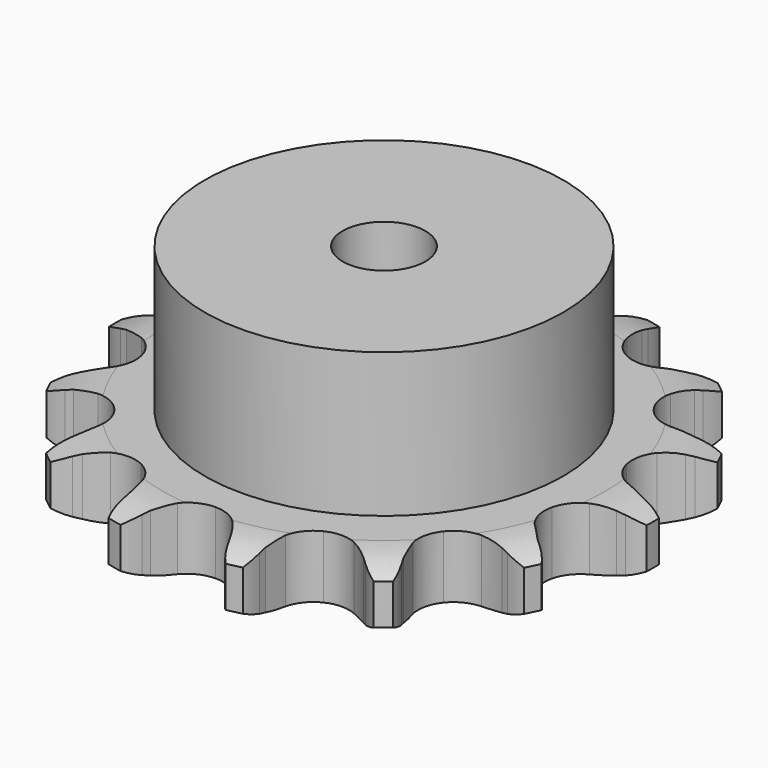
from build123d import *

# Parameters (mm, degrees)
PAD_DEPTH         = 9.1
SKETCH001_R       = 26
PAD001_DEPTH      = 30
SKETCH002_R       = 6
POCKET_DEPTH      = 0.001
POCKET_DEPTH_BACK = -30.001


with BuildPart() as part:
    # Sprocket → Pad (new body)
    with BuildSketch(Plane.XY):
        with BuildLine():
            ThreePointArc((-9.013426, 39.4904), (-7.374995, 38.000786), (-6.176591, 36.138735))
            Line((-6.176591, 36.138735), (-5.708889, 35.148664))
            ThreePointArc((-5.708889, 35.148664), (-4.928604, 33.728493), (-3.981059, 32.413999))
            ThreePointArc((-3.981059, 32.413999), (-2.202752, 31.022847), (0, 30.527301))
            ThreePointArc((0, 30.527301), (2.202752, 31.022847), (3.981059, 32.413999))
            ThreePointArc((3.981059, 32.413999), (4.928604, 33.728493), (5.708889, 35.148664))
            Line((5.708889, 35.148664), (6.176591, 36.138735))
            ThreePointArc((6.176591, 36.138735), (7.374995, 38.000786), (9.013426, 39.4904))
            ThreePointArc((9.013426, 39.4904), (9.843282, 37.437415), (10.115093, 35.239797))
            Line((10.115093, 35.239797), (10.106903, 34.144846))
            ThreePointArc((10.106903, 34.144846), (10.193726, 32.526763), (10.477097, 30.931321))
            ThreePointArc((10.477097, 30.931321), (11.475698, 28.906358), (13.2453, 27.504148))
            ThreePointArc((13.2453, 27.504148), (15.44492, 26.994881), (17.650718, 27.476687))
            Line((17.650718, 27.476687), (20.393965, 29.190858))
            ThreePointArc((20.393965, 29.190858), (20.812335, 29.544185), (21.244925, 29.879953))
            ThreePointArc((21.244925, 29.879953), (23.132564, 31.037635), (25.255059, 31.668842))
            ThreePointArc((25.255059, 31.668842), (25.111977, 29.459106), (24.403359, 27.361186))
            Line((24.403359, 27.361186), (23.920899, 26.378223))
            ThreePointArc((23.920899, 26.378223), (23.297063, 24.882709), (22.860135, 23.322315))
            ThreePointArc((22.860135, 23.322315), (22.881245, 21.06461), (23.867205, 19.033461))
            ThreePointArc((23.867205, 19.033461), (25.628032, 17.620248), (27.824435, 17.09728))
            Line((27.824435, 17.09728), (31.039766, 17.451445))
            ThreePointArc((31.039766, 17.451445), (31.570008, 17.588257), (32.105442, 17.703079))
            ThreePointArc((32.105442, 17.703079), (34.308445, 17.927099), (36.494617, 17.574881))
            ThreePointArc((36.494617, 17.574881), (35.406936, 15.646059), (33.85824, 14.063356))
            Line((33.85824, 14.063356), (32.997067, 13.387069))
            ThreePointArc((32.997067, 13.387069), (31.786131, 12.310329), (30.715444, 11.094039))
            ThreePointArc((30.715444, 11.094039), (29.754881, 9.050757), (29.761918, 6.792964))
            ThreePointArc((29.761918, 6.792964), (30.735198, 4.755709), (32.487182, 3.331548))
            Line((32.487182, 3.331548), (35.537761, 2.255559))
            ThreePointArc((35.537761, 2.255559), (36.074853, 2.148759), (36.607082, 2.019894))
            ThreePointArc((36.607082, 2.019894), (38.689118, 1.265882), (40.505969, 0))
            ThreePointArc((40.505969, 0), (38.689118, -1.265882), (36.607082, -2.019894))
            Line((36.607082, -2.019894), (35.537761, -2.255559))
            ThreePointArc((35.537761, -2.255559), (33.979566, -2.700262), (32.487182, -3.331548))
            ThreePointArc((32.487182, -3.331548), (30.735198, -4.755709), (29.761918, -6.792964))
            ThreePointArc((29.761918, -6.792964), (29.754881, -9.050757), (30.715444, -11.094039))
            Line((30.715444, -11.094039), (32.997067, -13.387069))
            ThreePointArc((32.997067, -13.387069), (33.434631, -13.716327), (33.85824, -14.063356))
            ThreePointArc((33.85824, -14.063356), (35.406936, -15.646059), (36.494617, -17.574881))
            ThreePointArc((36.494617, -17.574881), (34.308445, -17.927099), (32.105442, -17.703079))
            Line((32.105442, -17.703079), (31.039766, -17.451445))
            ThreePointArc((31.039766, -17.451445), (29.442931, -17.176034), (27.824435, -17.09728))
            ThreePointArc((27.824435, -17.09728), (25.628032, -17.620248), (23.867205, -19.033461))
            ThreePointArc((23.867205, -19.033461), (22.881245, -21.06461), (22.860135, -23.322315))
            Line((22.860135, -23.322315), (23.920899, -26.378223))
            ThreePointArc((23.920899, -26.378223), (24.172271, -26.864726), (24.403359, -27.361186))
            ThreePointArc((24.403359, -27.361186), (25.111977, -29.459106), (25.255059, -31.668842))
            ThreePointArc((25.255059, -31.668842), (23.132564, -31.037635), (21.244925, -29.879953))
            Line((21.244925, -29.879953), (20.393965, -29.190858))
            ThreePointArc((20.393965, -29.190858), (19.074763, -28.249881), (17.650718, -27.476687))
            ThreePointArc((17.650718, -27.476687), (15.44492, -26.994881), (13.2453, -27.504148))
            ThreePointArc((13.2453, -27.504148), (11.475698, -28.906358), (10.477097, -30.931321))
            Line((10.477097, -30.931321), (10.106903, -34.144846))
            ThreePointArc((10.106903, -34.144846), (10.122295, -34.692237), (10.115093, -35.239797))
            ThreePointArc((10.115093, -35.239797), (9.843282, -37.437415), (9.013426, -39.4904))
            ThreePointArc((9.013426, -39.4904), (7.374995, -38.000786), (6.176591, -36.138735))
            Line((6.176591, -36.138735), (5.708889, -35.148664))
            ThreePointArc((5.708889, -35.148664), (4.928604, -33.728493), (3.981059, -32.413999))
            ThreePointArc((3.981059, -32.413999), (2.202752, -31.022847), (0, -30.527301))
            ThreePointArc((0, -30.527301), (-2.202752, -31.022847), (-3.981059, -32.413999))
            Line((-3.981059, -32.413999), (-5.708889, -35.148664))
            ThreePointArc((-5.708889, -35.148664), (-5.932524, -35.648525), (-6.176591, -36.138735))
            ThreePointArc((-6.176591, -36.138735), (-7.374995, -38.000786), (-9.013426, -39.4904))
            ThreePointArc((-9.013426, -39.4904), (-9.843282, -37.437415), (-10.115093, -35.239797))
            Line((-10.115093, -35.239797), (-10.106903, -34.144846))
            ThreePointArc((-10.106903, -34.144846), (-10.193726, -32.526763), (-10.477097, -30.931321))
            ThreePointArc((-10.477097, -30.931321), (-11.475698, -28.906358), (-13.2453, -27.504148))
            ThreePointArc((-13.2453, -27.504148), (-15.44492, -26.994881), (-17.650718, -27.476687))
            Line((-17.650718, -27.476687), (-20.393965, -29.190858))
            ThreePointArc((-20.393965, -29.190858), (-20.812335, -29.544185), (-21.244925, -29.879953))
            ThreePointArc((-21.244925, -29.879953), (-23.132564, -31.037635), (-25.255059, -31.668842))
            ThreePointArc((-25.255059, -31.668842), (-25.111977, -29.459106), (-24.403359, -27.361186))
            Line((-24.403359, -27.361186), (-23.920899, -26.378223))
            ThreePointArc((-23.920899, -26.378223), (-23.297063, -24.882709), (-22.860135, -23.322315))
            ThreePointArc((-22.860135, -23.322315), (-22.881245, -21.06461), (-23.867205, -19.033461))
            ThreePointArc((-23.867205, -19.033461), (-25.628032, -17.620248), (-27.824435, -17.09728))
            Line((-27.824435, -17.09728), (-31.039766, -17.451445))
            ThreePointArc((-31.039766, -17.451445), (-31.570008, -17.588257), (-32.105442, -17.703079))
            ThreePointArc((-32.105442, -17.703079), (-34.308445, -17.927099), (-36.494617, -17.574881))
            ThreePointArc((-36.494617, -17.574881), (-35.406936, -15.646059), (-33.85824, -14.063356))
            Line((-33.85824, -14.063356), (-32.997067, -13.387069))
            ThreePointArc((-32.997067, -13.387069), (-31.786131, -12.310329), (-30.715444, -11.094039))
            ThreePointArc((-30.715444, -11.094039), (-29.754881, -9.050757), (-29.761918, -6.792964))
            ThreePointArc((-29.761918, -6.792964), (-30.735198, -4.755709), (-32.487182, -3.331548))
            Line((-32.487182, -3.331548), (-35.537761, -2.255559))
            ThreePointArc((-35.537761, -2.255559), (-36.074853, -2.148759), (-36.607082, -2.019894))
            ThreePointArc((-36.607082, -2.019894), (-38.689118, -1.265882), (-40.505969, 0))
            ThreePointArc((-40.505969, 0), (-38.689118, 1.265882), (-36.607082, 2.019894))
            Line((-36.607082, 2.019894), (-35.537761, 2.255559))
            ThreePointArc((-35.537761, 2.255559), (-33.979566, 2.700262), (-32.487182, 3.331548))
            ThreePointArc((-32.487182, 3.331548), (-30.735198, 4.755709), (-29.761918, 6.792964))
            ThreePointArc((-29.761918, 6.792964), (-29.754881, 9.050757), (-30.715444, 11.094039))
            Line((-30.715444, 11.094039), (-32.997067, 13.387069))
            ThreePointArc((-32.997067, 13.387069), (-33.434631, 13.716327), (-33.85824, 14.063356))
            ThreePointArc((-33.85824, 14.063356), (-35.406936, 15.646059), (-36.494617, 17.574881))
            ThreePointArc((-36.494617, 17.574881), (-34.308445, 17.927099), (-32.105442, 17.703079))
            Line((-32.105442, 17.703079), (-31.039766, 17.451445))
            ThreePointArc((-31.039766, 17.451445), (-29.442931, 17.176034), (-27.824435, 17.09728))
            ThreePointArc((-27.824435, 17.09728), (-25.628032, 17.620248), (-23.867205, 19.033461))
            ThreePointArc((-23.867205, 19.033461), (-22.881245, 21.06461), (-22.860135, 23.322315))
            Line((-22.860135, 23.322315), (-23.920899, 26.378223))
            ThreePointArc((-23.920899, 26.378223), (-24.172271, 26.864726), (-24.403359, 27.361186))
            ThreePointArc((-24.403359, 27.361186), (-25.111977, 29.459106), (-25.255059, 31.668842))
            ThreePointArc((-25.255059, 31.668842), (-23.132564, 31.037635), (-21.244925, 29.879953))
            Line((-21.244925, 29.879953), (-20.393965, 29.190858))
            ThreePointArc((-20.393965, 29.190858), (-19.074763, 28.249881), (-17.650718, 27.476687))
            ThreePointArc((-17.650718, 27.476687), (-15.44492, 26.994881), (-13.2453, 27.504148))
            ThreePointArc((-13.2453, 27.504148), (-11.475698, 28.906358), (-10.477097, 30.931321))
            Line((-10.477097, 30.931321), (-10.106903, 34.144846))
            ThreePointArc((-10.106903, 34.144846), (-10.122295, 34.692237), (-10.115093, 35.239797))
            ThreePointArc((-10.115093, 35.239797), (-9.843282, 37.437415), (-9.013426, 39.4904))
        make_face()
    extrude(amount=PAD_DEPTH)

    # Sketch → Groove (revolve, cut)
    with BuildSketch(Plane.XZ):
        with BuildLine():
            Line((32.025762, 0), (39, 0))
            Line((45.974238, 0), (39, 0))
            Line((45.974238, 9.1), (45.974238, 0))
            Line((39, 9.1), (45.974238, 9.1))
            Line((32.025762, 9.1), (39, 9.1))
            ThreePointArc((39, 7.5), (35.60347, 8.694871), (32.025762, 9.1))
            Line((39, 1.6), (39, 7.5))
            ThreePointArc((32.025762, 0), (35.60347, 0.405129), (39, 1.6))
        make_face()
    revolve(axis=Axis((0, 0, 0), (0, 0, 1)), mode=Mode.SUBTRACT)

    # Sketch001 → Pad001 (join)
    with BuildSketch(Plane.XY):
        Circle(SKETCH001_R)
    extrude(amount=PAD001_DEPTH)

    # Sketch002 → Pocket (cut, two sides)
    with BuildSketch(Plane.XY) as pocket_sk:
        Circle(SKETCH002_R)
    extrude(amount=-POCKET_DEPTH, mode=Mode.SUBTRACT)
    extrude(pocket_sk.sketch, amount=-POCKET_DEPTH_BACK, mode=Mode.SUBTRACT)


solid = part.part
